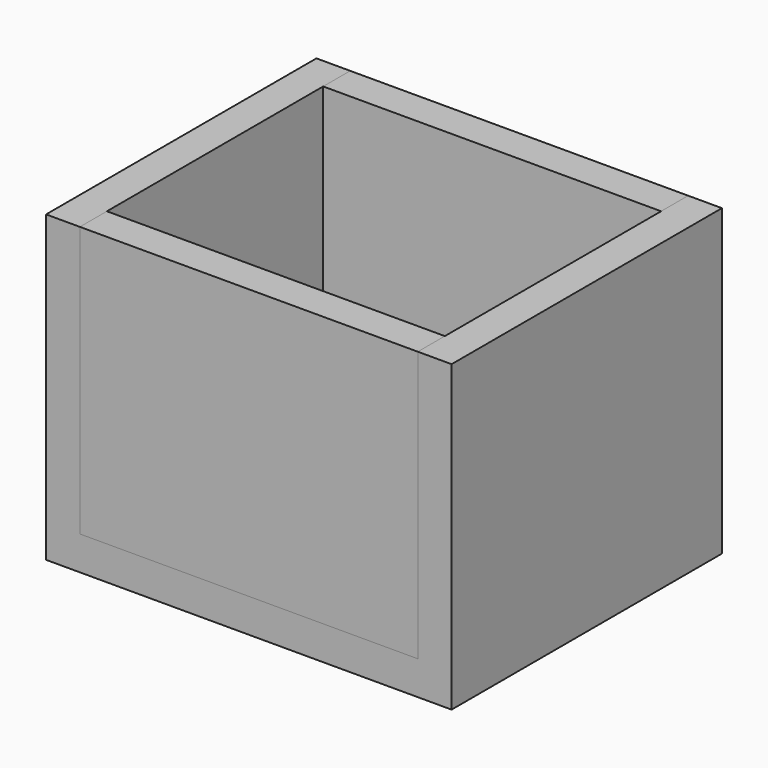
from build123d import *

# Parameters (mm, degrees)
F1_DEPTH = 254
F2_W     = 254
F2_H     = 203.2
F3_DEPTH = 25.4
F4_W     = 254
F4_H     = 203.2
F5_DEPTH = 25.4


with BuildPart() as f1:
    # F0 (on Front) → F1 (new body)
    with BuildSketch(Plane.XZ):
        Polygon((127, 0), (0, 0), (-127, 0), (-127, 203.2), (-152.4, 203.2), (-152.4, -25.4), (152.4, -25.4), (152.4, 203.2), (127, 203.2), align=None)
    extrude(amount=F1_DEPTH)


with BuildPart() as f3:
    # F2 (on face) → F3 (new body)
    with BuildSketch(Plane.XZ.offset(254)):
        with Locations((0, 101.6)):
            Rectangle(F2_W, F2_H)
    extrude(amount=-F3_DEPTH)


with BuildPart() as f5:
    # F4 (on face) → F5 (new body)
    with BuildSketch(Plane(origin=(0, 0, 0), x_dir=(-1, 0, 0), z_dir=(0, 1, 0))):
        with Locations((0, 101.6)):
            Rectangle(F4_W, F4_H)
    extrude(amount=-F5_DEPTH)


solid = Compound([f1.part, f3.part, f5.part])
